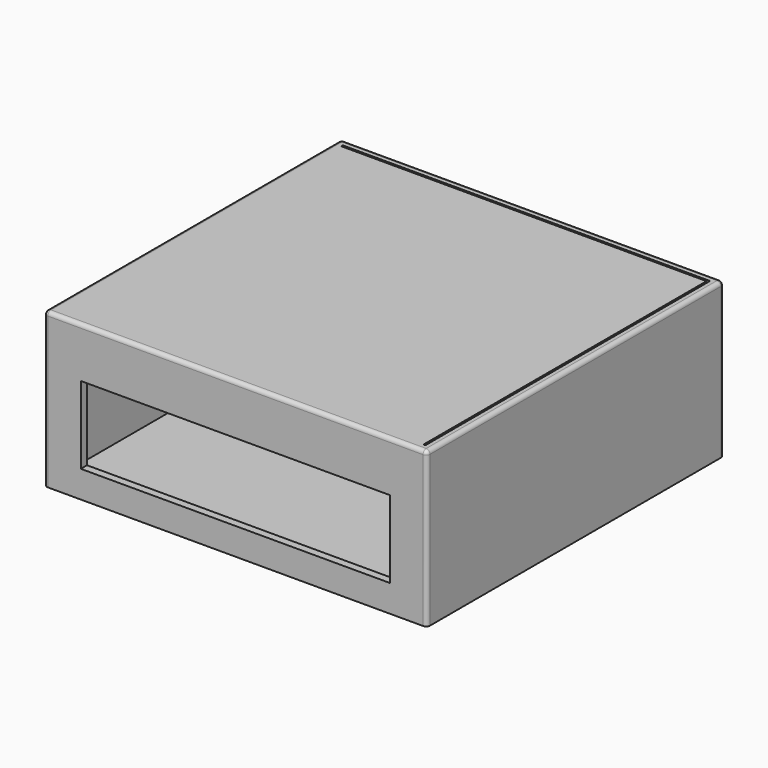
from build123d import *

# Parameters (mm, degrees)
F0_W      = 99
F0_H      = 96
F0_W_2    = 95
F0_H_2    = 92
F1_DEPTH  = 40
F2_DEPTH  = 2
F3_W      = 80
F3_H      = 20
F4_DEPTH  = 2
F5_R      = 1
F6_W      = 94
F6_H      = 2
F7_DEPTH  = 4
F8_W      = 94
F8_H      = 2
F9_DEPTH  = 4
F10_W     = 94.5
F10_H     = 91.5
F11_DEPTH = 4


with BuildPart() as f1:
    # F0 (on Top) → F1 (new body)
    with BuildSketch(Plane.XY):
        Rectangle(F0_W, F0_H)
        Rectangle(F0_W_2, F0_H_2, mode=Mode.SUBTRACT)
    extrude(amount=F1_DEPTH)

    # F0 (on Top) → F2 (join)
    with BuildSketch(Plane.XY):
        Rectangle(F0_W_2, F0_H_2)
    extrude(amount=F2_DEPTH)

    # F3 (on face) → F4 (cut)
    with BuildSketch(Plane.XZ.offset(48)):
        with Locations((0, 17)):
            Rectangle(F3_W, F3_H)
    extrude(amount=-F4_DEPTH, mode=Mode.SUBTRACT)

    # F5
    f5_edges = [f1.edges().sort_by_distance(p)[0] for p in [
        (-49.5, 0, 40),
        (0, -48, 40),
        (49.5, 0, 40),
        (0, 48, 40),
        (-49.5, -48, 20),
        (49.5, -48, 20),
        (49.5, 48, 20),
        (-49.5, 48, 20),
    ]]
    fillet(f5_edges, radius=F5_R)

    # F6 (on face) → F7 (join)
    with BuildSketch(Plane(origin=(-49.5, 0, 0), x_dir=(0, -1, 0), z_dir=(-1, 0, 0))):
        with Locations((0, 35)):
            Rectangle(F6_W, F6_H)
    extrude(amount=-F7_DEPTH)

    # F8 (on face) → F9 (join)
    with BuildSketch(Plane.YZ.offset(49.5)):
        with Locations((0, 35)):
            Rectangle(F8_W, F8_H)
    extrude(amount=-F9_DEPTH)

    # F10 (on face) → F11 (join)
    with BuildSketch(Plane.XY.offset(36)):
        with Locations((-0.25, -0.25)):
            Rectangle(F10_W, F10_H)
    extrude(amount=F11_DEPTH)


solid = f1.part
